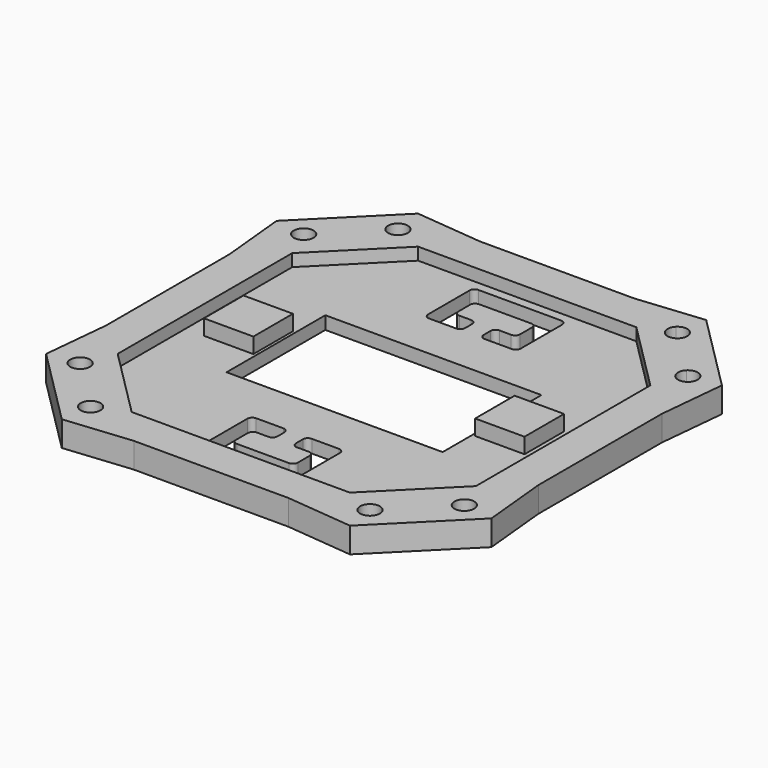
from build123d import *

# Parameters (mm, degrees)
F0_R     = 1.6
F1_DEPTH = 4.1
F3_DEPTH = 2
F5_DEPTH = 2.101
F6_W     = 35
F6_H     = 20
F7_DEPTH = 2.101
F8_W     = 8
F8_H     = 8
F9_DEPTH = 2.5


with BuildPart() as f1:
    # F0 (on Top) → F1 (new body)
    with BuildSketch(Plane.XY):
        Polygon((0, 35), (0, 0), (26.870058, 26.870058), (29.698485, 29.698485), (23.334524, 36.062446), (12.5, 35), align=None)
        with BuildLine():
            ThreePointArc((24.227417, 31.112698), (24.105624, 30.500405), (23.758788, 29.981328))
            ThreePointArc((23.758788, 29.981328), (21.496046, 29.981328), (21.496046, 32.244069))
            ThreePointArc((21.496046, 32.244069), (23.23971, 32.590906), (24.227417, 31.112698))
        make_face(mode=Mode.SUBTRACT)
        Polygon((0, -35), (0, 0), (0, 35), (-12.5, 35), (-23.334524, 36.062446), (-36.062446, 23.334524), (-35, 12.5), (-35, -12.5), (-36.062446, -23.334524), (-23.334524, -36.062446), (-12.5, -35), align=None)
        with Locations((-22.627417, -31.112698)):
            Circle(F0_R, mode=Mode.SUBTRACT)
        with Locations((-31.112698, -22.627417)):
            Circle(F0_R, mode=Mode.SUBTRACT)
        with Locations((-31.112698, 22.627417)):
            Circle(F0_R, mode=Mode.SUBTRACT)
        with Locations((-22.627417, 31.112698)):
            Circle(F0_R, mode=Mode.SUBTRACT)
        Polygon((26.870058, 26.870058), (0, 0), (0, -35), (12.5, -35), (23.334524, -36.062446), (36.062446, -23.334524), (35, -12.5), (35, 12.5), (36.062446, 23.334524), (29.698485, 29.698485), align=None)
        with Locations((22.627417, -31.112698)):
            Circle(F0_R, mode=Mode.SUBTRACT)
        with Locations((31.112698, -22.627417)):
            Circle(F0_R, mode=Mode.SUBTRACT)
        with BuildLine():
            ThreePointArc((32.244069, 21.496046), (29.981328, 21.496046), (29.981328, 23.758788))
            ThreePointArc((29.981328, 23.758788), (31.724992, 24.105624), (32.712698, 22.627417))
            ThreePointArc((32.712698, 22.627417), (32.590906, 22.015124), (32.244069, 21.496046))
        make_face(mode=Mode.SUBTRACT)
    extrude(amount=F1_DEPTH)

    # F2 (on face) → F3 (cut)
    with BuildSketch(Plane.XY.offset(4.1)):
        Polygon((-29, 17.669048), (-29, 0), (0, 0), (0, 29), (-17.669048, 29), align=None)
        Polygon((0, 0), (-29, 0), (-29, -17.669048), (-17.669048, -29), (17.669048, -29), (29, -17.669048), (29, 17.669045), (17.669045, 29), (0, 29), align=None)
    extrude(amount=-F3_DEPTH, mode=Mode.SUBTRACT)

    # F4 (on face) → F5 (cut, through all)
    with BuildSketch(Plane.XY.offset(2.1)):
        with BuildLine():
            Line((6.7, 27.5), (0, 27.5))
            Line((0, 27.5), (0, 24.5))
            Line((0, 24.5), (4.2, 24.5))
            ThreePointArc((4.2, 24.5), (4.765685, 24.265685), (5, 23.7))
            Line((5, 23.7), (5, 21.3))
            ThreePointArc((5, 21.3), (4.765685, 20.734315), (4.2, 20.5))
            Line((4.2, 20.5), (2.3, 20.5))
            ThreePointArc((2.3, 20.5), (1.734315, 20.265685), (1.5, 19.7))
            Line((1.5, 19.7), (1.5, 18.3))
            ThreePointArc((1.5, 18.3), (1.734315, 17.734315), (2.3, 17.5))
            Line((2.3, 17.5), (6.7, 17.5))
            ThreePointArc((6.7, 17.5), (7.265685, 17.734315), (7.5, 18.3))
            Line((7.5, 18.3), (7.5, 26.7))
            ThreePointArc((7.5, 26.7), (7.265685, 27.265685), (6.7, 27.5))
        make_face()
        with BuildLine():
            Line((0, 24.5), (0, 27.5))
            Line((0, 27.5), (-6.7, 27.5))
            ThreePointArc((-6.7, 27.5), (-7.265685, 27.265685), (-7.5, 26.7))
            Line((-7.5, 26.7), (-7.5, 18.3))
            ThreePointArc((-7.5, 18.3), (-7.265685, 17.734315), (-6.7, 17.5))
            Line((-6.7, 17.5), (-2.3, 17.5))
            ThreePointArc((-2.3, 17.5), (-1.734315, 17.734315), (-1.5, 18.3))
            Line((-1.5, 18.3), (-1.5, 19.7))
            ThreePointArc((-1.5, 19.7), (-1.734315, 20.265685), (-2.3, 20.5))
            Line((-2.3, 20.5), (-4.2, 20.5))
            ThreePointArc((-4.2, 20.5), (-4.765685, 20.734315), (-5, 21.3))
            Line((-5, 21.3), (-5, 23.7))
            ThreePointArc((-5, 23.7), (-4.765685, 24.265685), (-4.2, 24.5))
            Line((-4.2, 24.5), (0, 24.5))
        make_face()
        with BuildLine():
            Line((-4.2, -20.5), (-2.3, -20.5))
            ThreePointArc((-2.3, -20.5), (-1.734315, -20.265685), (-1.5, -19.7))
            Line((-1.5, -19.7), (-1.5, -18.3))
            ThreePointArc((-1.5, -18.3), (-1.734315, -17.734315), (-2.3, -17.5))
            Line((-2.3, -17.5), (-6.7, -17.5))
            ThreePointArc((-6.7, -17.5), (-7.265685, -17.734315), (-7.5, -18.3))
            Line((-7.5, -18.3), (-7.5, -26.7))
            ThreePointArc((-7.5, -26.7), (-7.265685, -27.265685), (-6.7, -27.5))
            Line((-6.7, -27.5), (6.7, -27.5))
            ThreePointArc((6.7, -27.5), (7.265685, -27.265685), (7.5, -26.7))
            Line((7.5, -26.7), (7.5, -18.3))
            ThreePointArc((7.5, -18.3), (7.265685, -17.734315), (6.7, -17.5))
            Line((6.7, -17.5), (2.3, -17.5))
            ThreePointArc((2.3, -17.5), (1.734315, -17.734315), (1.5, -18.3))
            Line((1.5, -18.3), (1.5, -19.7))
            ThreePointArc((1.5, -19.7), (1.734315, -20.265685), (2.3, -20.5))
            Line((2.3, -20.5), (4.2, -20.5))
            ThreePointArc((4.2, -20.5), (4.765685, -20.734315), (5, -21.3))
            Line((5, -21.3), (5, -23.7))
            ThreePointArc((5, -23.7), (4.765685, -24.265685), (4.2, -24.5))
            Line((4.2, -24.5), (-4.2, -24.5))
            ThreePointArc((-4.2, -24.5), (-4.765685, -24.265685), (-5, -23.7))
            Line((-5, -23.7), (-5, -21.3))
            ThreePointArc((-5, -21.3), (-4.765685, -20.734315), (-4.2, -20.5))
        make_face()
    extrude(amount=-F5_DEPTH, mode=Mode.SUBTRACT)

    # F6 (on face) → F7 (cut, through all)
    with BuildSketch(Plane.XY.offset(2.1)):
        Rectangle(F6_W, F6_H)
    extrude(amount=-F7_DEPTH, mode=Mode.SUBTRACT)

    # F8 (on face) → F9 (join)
    with BuildSketch(Plane.XY.offset(2.1)):
        with Locations((-21.959, 0)):
            Rectangle(F8_W, F8_H)
        with Locations((21.959, 0)):
            Rectangle(F8_W, F8_H)
    extrude(amount=F9_DEPTH)


solid = f1.part
